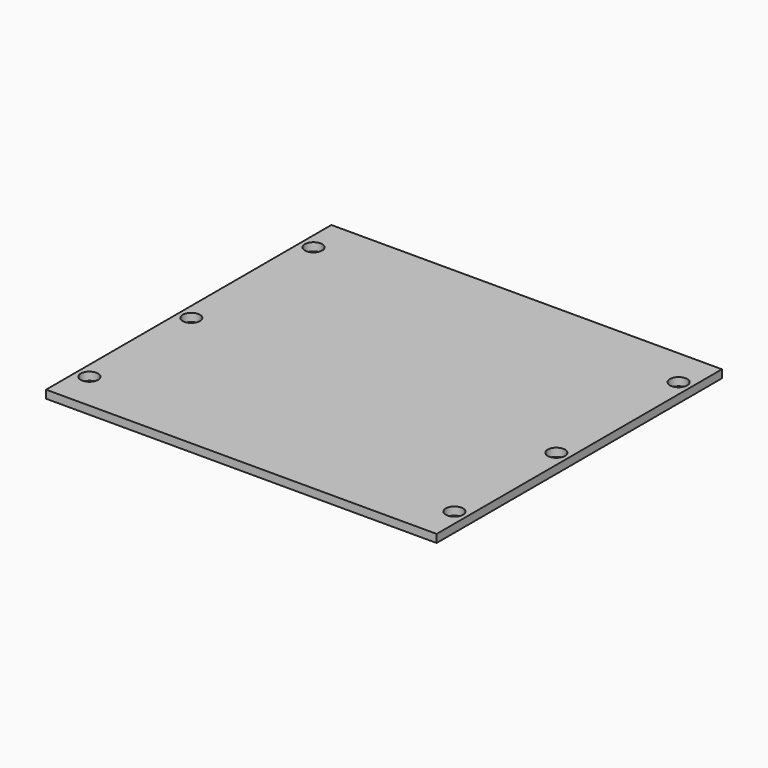
from build123d import *

# Parameters (mm, degrees)
F0_W     = 146.05
F0_H     = 133.35
F0_R     = 3.24
F0_R_2   = 3.221282
F1_DEPTH = 3


with BuildPart() as f1:
    # F0 (on Top) → F1 (new body)
    with BuildSketch(Plane.XY):
        Rectangle(F0_W, F0_H)
        with Locations((-68.262, -52.387)):
            Circle(F0_R, mode=Mode.SUBTRACT)
        with Locations((-68.262, -4.7625)):
            Circle(F0_R_2, mode=Mode.SUBTRACT)
        with Locations((68.262, -52.387)):
            Circle(F0_R, mode=Mode.SUBTRACT)
        with Locations((68.262, -4.7625)):
            Circle(F0_R, mode=Mode.SUBTRACT)
        with Locations((-68.262, 52.387)):
            Circle(F0_R, mode=Mode.SUBTRACT)
        with Locations((68.262, 52.387)):
            Circle(F0_R, mode=Mode.SUBTRACT)
    extrude(amount=F1_DEPTH)


solid = f1.part
